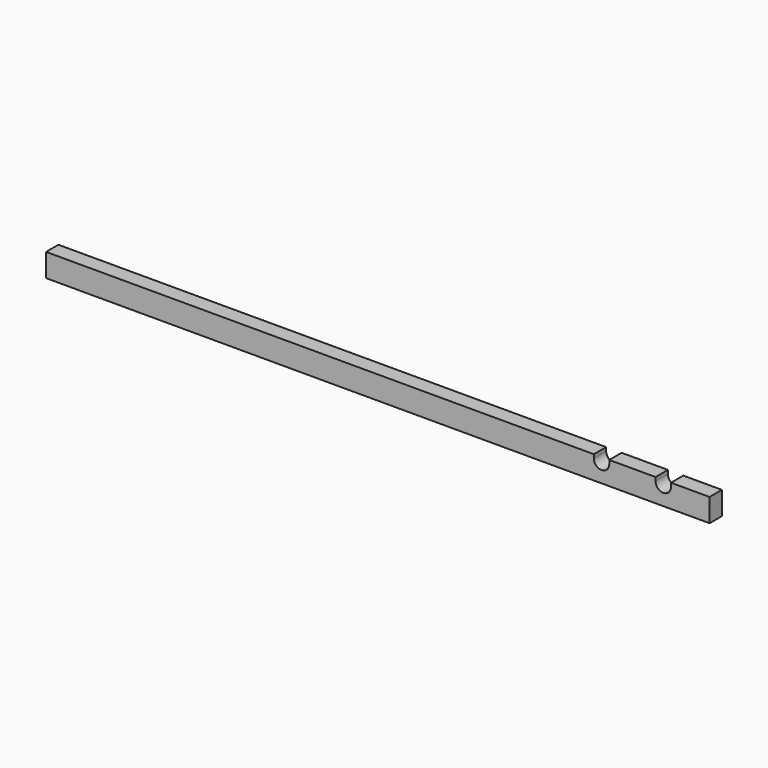
from build123d import *

# Parameters (mm, degrees)
F0_W     = 546.1
F0_H     = 19.05
F1_DEPTH = 12.7
F3_DEPTH = 25.4


with BuildPart() as f1:
    # F0 (on Front) → F1 (new body)
    with BuildSketch(Plane.XZ):
        with Locations((196.914868, 2.522134)):
            Rectangle(F0_W, F0_H)
    extrude(amount=F1_DEPTH)

    # F2 (on face) → F3 (cut)
    with BuildSketch(Plane.XZ.offset(12.7)):
        with BuildLine():
            Line((374.714868, 12.047134), (374.714868, 8.999134))
            ThreePointArc((374.714868, 8.999134), (374.912788, 10.572163), (375.494213, 12.047134))
            Line((375.494213, 12.047134), (374.714868, 12.047134))
        make_face()
        with BuildLine():
            ThreePointArc((375.494213, 12.047134), (374.912788, 10.572163), (374.714868, 8.999134))
            ThreePointArc((374.714868, 8.999134), (381.064868, 2.649134), (387.414868, 8.999134))
            ThreePointArc((387.414868, 8.999134), (387.216947, 10.572163), (386.635522, 12.047134))
            Line((386.635522, 12.047134), (375.494213, 12.047134))
        make_face()
        with BuildLine():
            Line((426.294213, 12.047134), (425.514868, 12.047134))
            Line((425.514868, 12.047134), (425.514868, 8.999134))
            ThreePointArc((425.514868, 8.999134), (425.712788, 10.572163), (426.294213, 12.047134))
        make_face()
        with BuildLine():
            ThreePointArc((426.294213, 12.047134), (425.712788, 10.572163), (425.514868, 8.999134))
            ThreePointArc((425.514868, 8.999134), (431.864868, 2.649134), (438.214868, 8.999134))
            ThreePointArc((438.214868, 8.999134), (438.016947, 10.572163), (437.435522, 12.047134))
            Line((437.435522, 12.047134), (426.294213, 12.047134))
        make_face()
        with BuildLine():
            ThreePointArc((437.435522, 12.047134), (438.016947, 10.572163), (438.214868, 8.999134))
            Line((438.214868, 8.999134), (438.214868, 12.047134))
            Line((438.214868, 12.047134), (437.435522, 12.047134))
        make_face()
        with BuildLine():
            ThreePointArc((386.635522, 12.047134), (387.216947, 10.572163), (387.414868, 8.999134))
            Line((387.414868, 8.999134), (387.414868, 12.047134))
            Line((387.414868, 12.047134), (386.635522, 12.047134))
        make_face()
    extrude(amount=-F3_DEPTH, mode=Mode.SUBTRACT)


solid = f1.part
